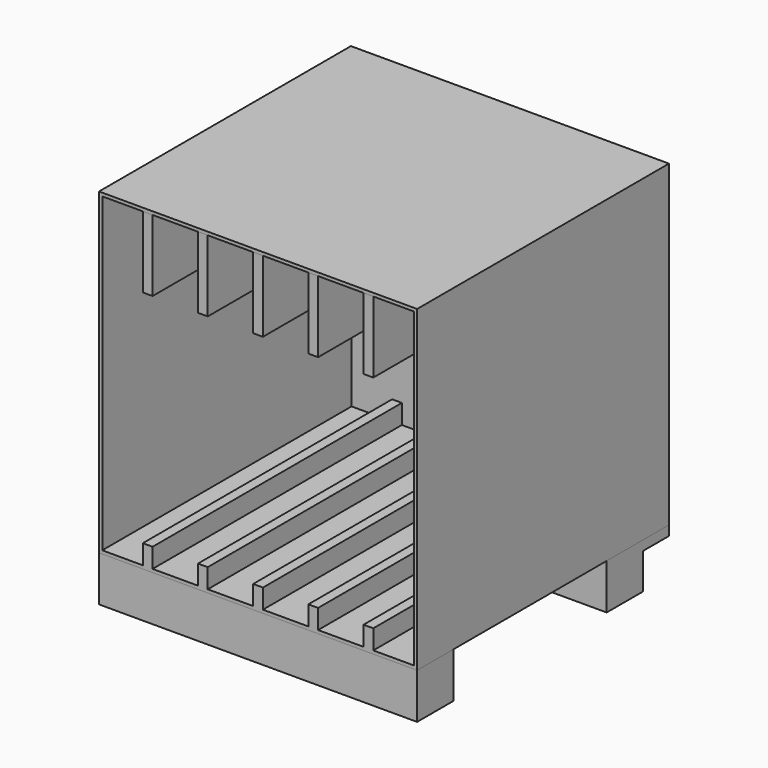
from build123d import *

# Parameters (mm, degrees)
F0_W     = 622.3
F0_H     = 622.3
F1_DEPTH = 615.95
F2_T     = -6.35
F3_W     = 88.9
F3_H     = 88.9
F4_DEPTH = 622.3
F3_W_2   = 63.5
F3_H_2   = 19.05
F5_W     = 19.05
F5_H     = 38.1
F6_DEPTH = 609.6
F7_W     = 19.05
F7_H     = 139.7
F8_DEPTH = 609.6


with BuildPart() as f1:
    # F0 (on Front) → F1 (new body)
    with BuildSketch(Plane.XZ):
        Rectangle(F0_W, F0_H)
    extrude(amount=F1_DEPTH)

    # F2
    f2_openings = [f1.faces().sort_by_distance(p)[0] for p in [
        (0, -615.95, 0),
    ]]
    offset(amount=F2_T, openings=f2_openings)

    # F5 (on face) → F6 (join)
    with BuildSketch(Plane.XZ.offset(615.95)):
        with Locations((-215.9, -285.75)):
            Rectangle(F5_W, F5_H)
        with Locations((-107.95, -285.75)):
            Rectangle(F5_W, F5_H)
        with Locations((0, -285.75)):
            Rectangle(F5_W, F5_H)
        with Locations((107.95, -285.75)):
            Rectangle(F5_W, F5_H)
        with Locations((215.9, -285.75)):
            Rectangle(F5_W, F5_H)
    extrude(amount=-F6_DEPTH)


with BuildPart() as f4:
    # F3 (on face) → F4 (new body)
    with BuildSketch(Plane.YZ.offset(311.15)):
        with Locations((-571.5, -355.6)):
            Rectangle(F3_W, F3_H)
    extrude(amount=-F4_DEPTH)


with BuildPart() as f4b:
    # F3 (on face) → F4, piece 2 (new body)
    with BuildSketch(Plane.YZ.offset(311.15)):
        Polygon((-63.5, -311.15), (-152.4, -311.15), (-152.4, -400.05), (-63.5, -400.05), (-63.5, -330.2), align=None)
        with Locations((-31.75, -320.675)):
            Rectangle(F3_W_2, F3_H_2)
    extrude(amount=-F4_DEPTH)


with BuildPart() as f8:
    # F7 (on face) → F8 (new body)
    with BuildSketch(Plane.XZ.offset(615.95)):
        with Locations((-215.9, 234.95)):
            Rectangle(F7_W, F7_H)
    extrude(amount=-F8_DEPTH)


with BuildPart() as f8b:
    # F7 (on face) → F8, piece 2 (new body)
    with BuildSketch(Plane.XZ.offset(615.95)):
        with Locations((-107.95, 234.95)):
            Rectangle(F7_W, F7_H)
    extrude(amount=-F8_DEPTH)


with BuildPart() as f8c:
    # F7 (on face) → F8, piece 3 (new body)
    with BuildSketch(Plane.XZ.offset(615.95)):
        with Locations((0, 234.95)):
            Rectangle(F7_W, F7_H)
    extrude(amount=-F8_DEPTH)


with BuildPart() as f8d:
    # F7 (on face) → F8, piece 4 (new body)
    with BuildSketch(Plane.XZ.offset(615.95)):
        with Locations((107.95, 234.95)):
            Rectangle(F7_W, F7_H)
    extrude(amount=-F8_DEPTH)


with BuildPart() as f8e:
    # F7 (on face) → F8, piece 5 (new body)
    with BuildSketch(Plane.XZ.offset(615.95)):
        with Locations((215.9, 234.95)):
            Rectangle(F7_W, F7_H)
    extrude(amount=-F8_DEPTH)


solid = Compound([f1.part, f4.part, f4b.part, f8.part, f8b.part, f8c.part, f8d.part, f8e.part])
